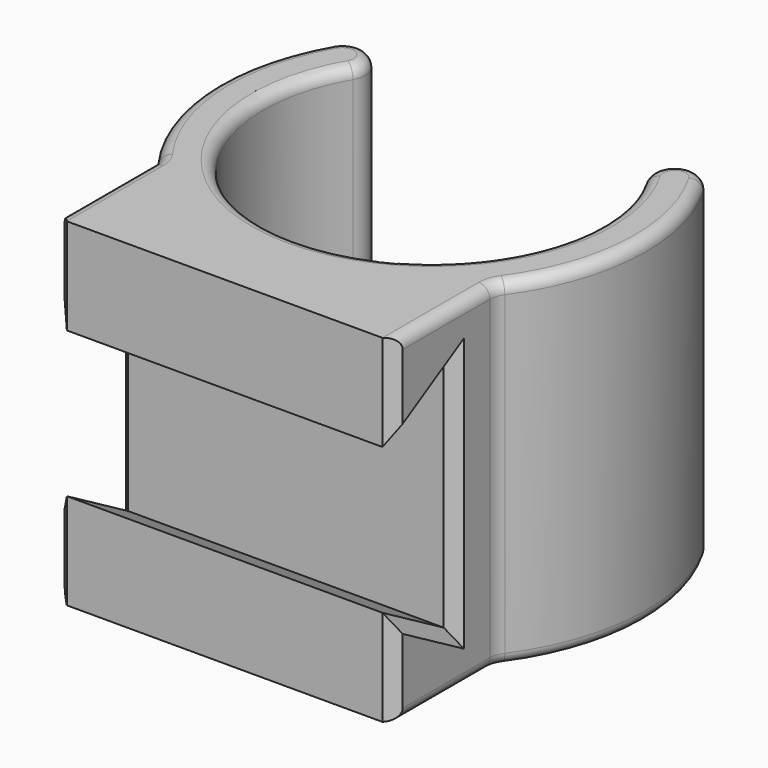
from build123d import *

# Parameters (mm, degrees)
PAD001_DEPTH    = 7.5
POCKET_DEPTH    = 17.001
CHAMFER002_SIZE = 0.5
CHAMFER003_SIZE = 0.5
FILLET002_R     = 0.5
FILLET003_R     = 0.5


with BuildPart() as part:
    # Sketch002 → Pad001 (new body, symmetric)
    with BuildSketch(Plane.XY):
        with BuildLine():
            ThreePointArc((-6.5, 3.741657), (0, -7.5), (6.5, 3.741657))
            ThreePointArc((8.233333, 4.739433), (6.867779, 5.107212), (6.5, 3.741657))
            ThreePointArc((7.690476, -5.577327), (9.486876, -0.49919), (8.233333, 4.739433))
            ThreePointArc((7.690476, -5.577327), (7.54881, -5.855807), (7.5, -6.164414))
            Line((7.5, -11.5), (7.5, -6.164414))
            Line((-7.5, -11.5), (7.5, -11.5))
            Line((-7.5, -6.164414), (-7.5, -11.5))
            ThreePointArc((-7.5, -6.164414), (-7.54881, -5.855807), (-7.690476, -5.577327))
            ThreePointArc((-8.233333, 4.739433), (-9.486876, -0.49919), (-7.690476, -5.577327))
            ThreePointArc((-6.5, 3.741657), (-6.867779, 5.107212), (-8.233333, 4.739433))
        make_face()
    extrude(amount=PAD001_DEPTH, both=True)

    # Sketch003 (on Face6 of Pad001) → Pocket (cut, through all)
    with BuildSketch(Plane.YZ.offset(7.5)):
        Polygon((-11.5, -3.237009), (-11.5, 3.237009), (-8.1, 5.2), (-8.1, -5.2), align=None)
    extrude(amount=-POCKET_DEPTH, mode=Mode.SUBTRACT)

    # Chamfer002
    chamfer002_edges = [part.edges().sort_by_distance(p)[0] for p in [
        (7.5, -11.5, 5.368505),
        (7.5, -9.8, 4.218505),
        (7.5, -8.1, 0),
        (7.5, -9.8, -4.218505),
        (7.5, -11.5, -5.368505),
    ]]
    chamfer(chamfer002_edges, length=CHAMFER002_SIZE)

    # Chamfer003
    chamfer003_edges = [part.edges().sort_by_distance(p)[0] for p in [
        (-7.5, -11.5, -5.368505),
        (-7.5, -9.8, -4.218505),
        (-7.5, -8.1, 0),
        (-7.5, -9.8, 4.218505),
        (-7.5, -11.5, 5.368505),
    ]]
    chamfer(chamfer003_edges, length=CHAMFER003_SIZE)

    # Fillet002
    fillet002_edges = [part.edges().sort_by_distance(p)[0] for p in [
        (6.867779, 5.107212, -7.5),
    ]]
    fillet(fillet002_edges, radius=FILLET002_R)

    # Fillet003
    fillet003_edges = [part.edges().sort_by_distance(p)[0] for p in [
        (6.867779, 5.107212, 7.5),
    ]]
    fillet(fillet003_edges, radius=FILLET003_R)


solid = part.part
